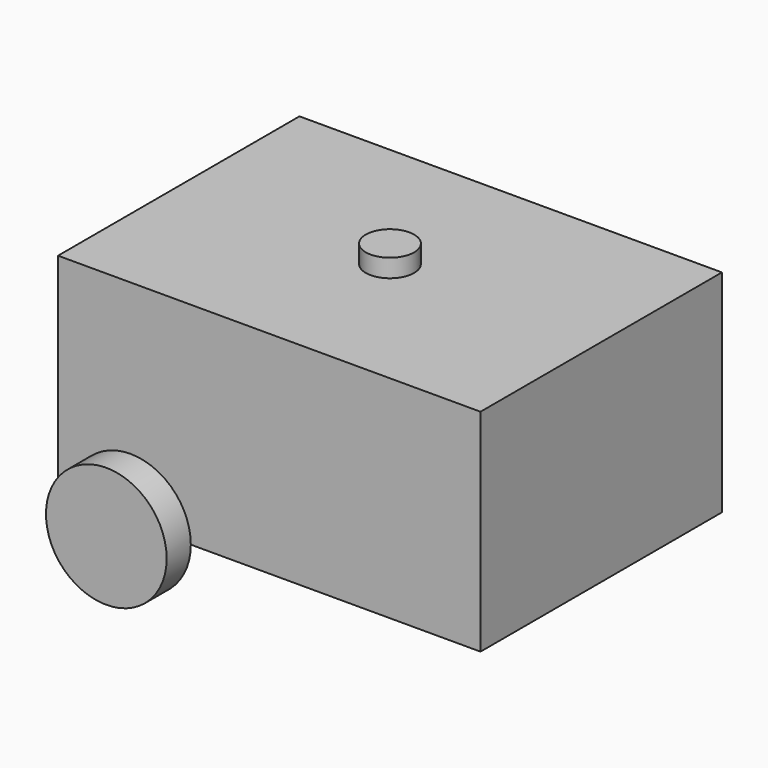
from build123d import *

# Parameters (mm, degrees)
SKETCH_W     = 700
SKETCH_H     = 500
PAD_DEPTH    = 350
SKETCH001_R  = 40
PAD001_DEPTH = 30
SKETCH002_R  = 100
PAD002_DEPTH = 50


with BuildPart() as part:
    # Sketch → Pad (new body)
    with BuildSketch(Plane.XY):
        Rectangle(SKETCH_W, SKETCH_H)
    extrude(amount=PAD_DEPTH)

    # Sketch001 (on Face6 of Pad) → Pad001 (join)
    with BuildSketch(Plane.XY.offset(350)):
        Circle(SKETCH001_R)
    extrude(amount=PAD001_DEPTH)

    # Sketch002 (on Face6 of Pad001) → Pad002 (join)
    with BuildSketch(Plane.XZ.offset(250)):
        with Locations((-230, 0)):
            Circle(SKETCH002_R)
    pad002 = extrude(amount=PAD002_DEPTH)

    # Mirrored: Pad002 across XZ
    add(pad002.mirror(Plane.XZ))


solid = part.part
